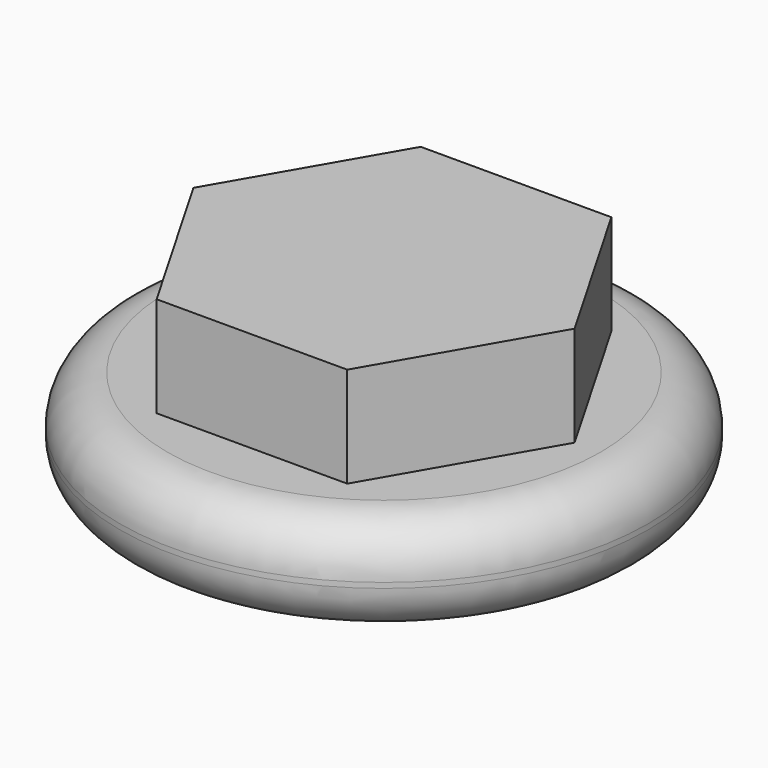
from build123d import *

# Parameters (mm, degrees)
F0_R     = 12.7
F1_DEPTH = 4.826
F3_DEPTH = 4.826
F4_R     = 2.286
F5_R     = 2.286


with BuildPart() as f1:
    # F0 (on Top) → F1 (new body)
    with BuildSketch(Plane.XY):
        Circle(F0_R)
    extrude(amount=F1_DEPTH)

    # F2 (on face) → F3 (join)
    with BuildSketch(Plane.XY.offset(4.826)):
        Polygon((4.582718, 7.9375), (-4.582718, 7.9375), (-9.165436, 0), (-4.582718, -7.9375), (4.582718, -7.9375), (9.165436, 0), align=None)
    extrude(amount=F3_DEPTH)

    # F4
    f4_edges = [f1.edges().sort_by_distance(p)[0] for p in [
        (-12.7, 0, 4.826),
    ]]
    fillet(f4_edges, radius=F4_R)

    # F5
    f5_edges = [f1.edges().sort_by_distance(p)[0] for p in [
        (-12.7, 0, 0),
    ]]
    fillet(f5_edges, radius=F5_R)


solid = f1.part
